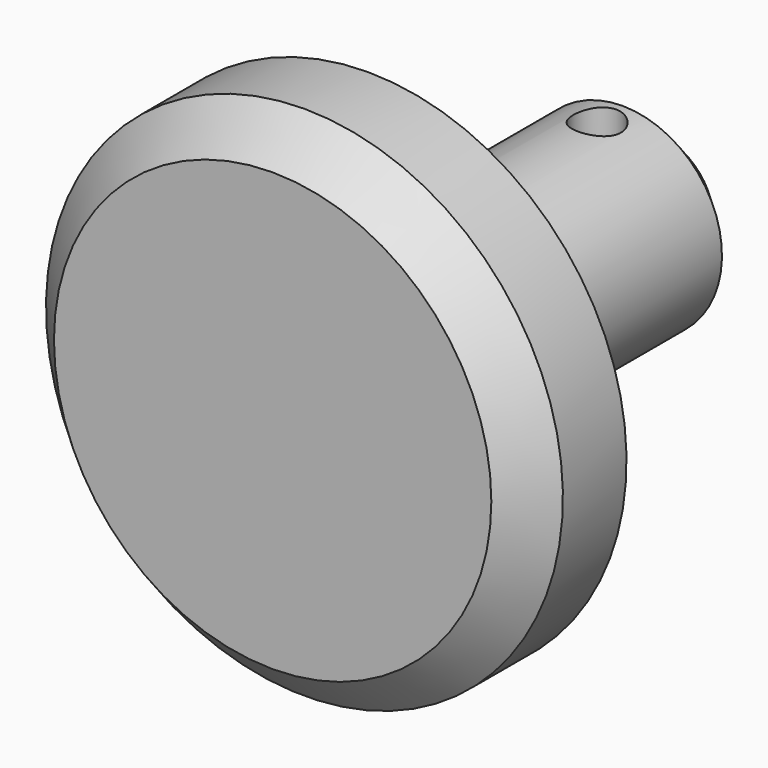
from build123d import *

# Parameters (mm, degrees)
F2_SIZE2      = 10
F2_SIZE       = 10
F3_SIZE2      = 10
F3_SIZE       = 10
F4_R          = 6
F5_DEPTH      = 80.6255635247
F5_DEPTH_BACK = 49.3764364753


with BuildPart() as f1:
    # F0 (on Right) → F1 (revolve)
    with BuildSketch(Plane.YZ):
        Polygon((-138.6194518108, 49.3754364753), (-138.6194518108, -15.6245635247), (-18.6194518108, -15.6245635247), (-18.6194518108, 9.3754364753), (-108.6194518108, 9.3754364753), (-108.6194518108, 49.3754364753), align=None)
    revolve(axis=Axis((0, -78.6194518108, -15.6245635247), (0, 1, 0)))

    # F2
    f2_edges = [f1.edges().sort_by_distance(p)[0] for p in [
        (0, -18.619452, -40.624564),
    ]]
    chamfer(f2_edges, length=F2_SIZE, length2=F2_SIZE2)

    # F3
    f3_edges = [f1.edges().sort_by_distance(p)[0] for p in [
        (0, -138.619452, -80.624564),
    ]]
    chamfer(f3_edges, length=F3_SIZE, length2=F3_SIZE2)

    # F4 (on Top) → F5 (cut, two sides)
    with BuildSketch(Plane.XY) as f5_sk:
        with Locations((0, -36.6194518108)):
            Circle(F4_R)
    extrude(amount=-F5_DEPTH, mode=Mode.SUBTRACT)
    extrude(f5_sk.sketch, amount=F5_DEPTH_BACK, mode=Mode.SUBTRACT)


solid = f1.part
